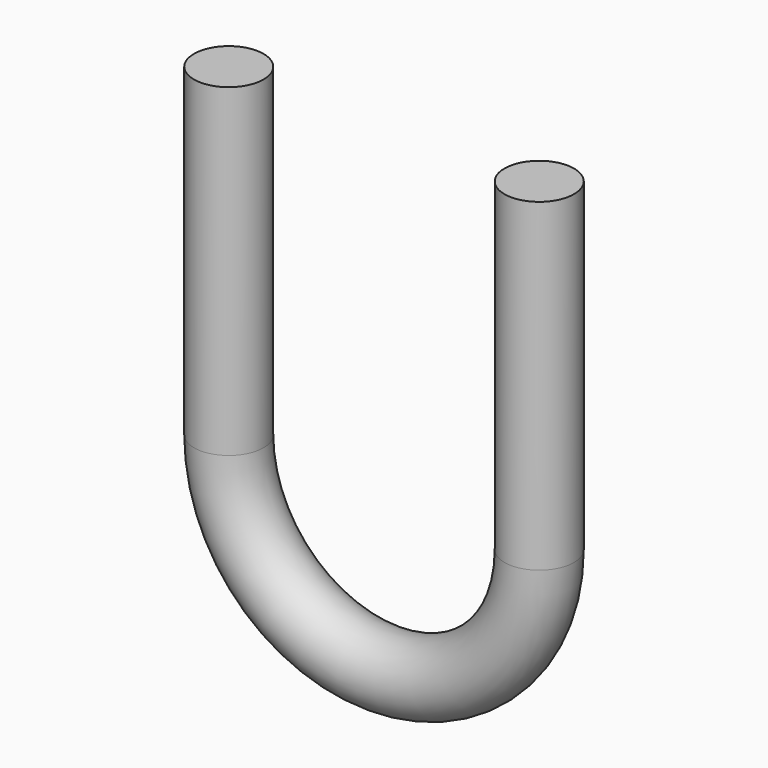
from build123d import *

# Parameters (mm, degrees)
F2_R = 9.086012


with BuildPart() as f3:
    # F3: sweep along a path in F0
    with BuildLine(Plane.XZ) as f3_path:
        Line((-81.109948, 0), (-81.109948, -84.719069))
        ThreePointArc((-81.109948, -84.719069), (-40.554974, -125.274044), (0, -84.719069))
        Line((0, -84.719069), (0, 0))
    # F2 (on face) → F3 (sweep)
    with BuildSketch(Plane(origin=(0, 0, 0), x_dir=(1, 0, 0), z_dir=(0, 0, -1))):
        with Locations((-81.109948, 0)):
            Circle(F2_R)
    sweep(path=f3_path.line)


solid = f3.part
